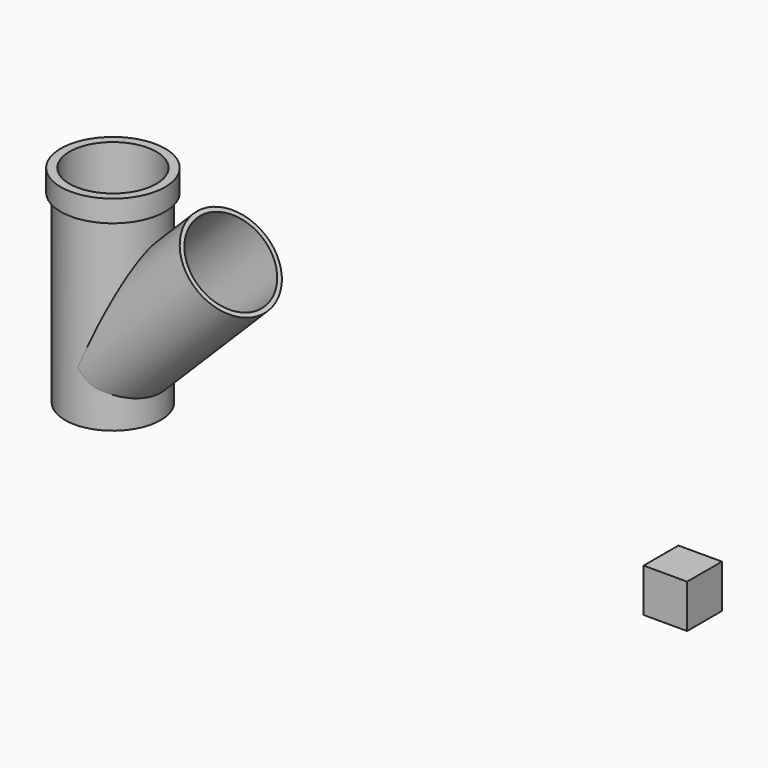
from build123d import *

# Parameters (mm, degrees)
F0_W     = 2
F0_H     = 10
F0_W_2   = 20
F0_H_2   = 20
F3_DEPTH = 10


with BuildPart() as f1:
    # F0 (on Front) → F1 (revolve)
    with BuildSketch(Plane.XZ):
        with Locations((23, 42.5)):
            Rectangle(F0_W, F0_H)
        Polygon((20, 45.5), (20, 23.8248504249), (22, 25.8248504249), (22, 37.5), (22, 47.5), (20, 47.5), align=None)
        Polygon((20, 20.9964233001), (20, -45.5), (20, -47.5), (22, -47.5), (22, 22.9964233001), align=None)
        with Locations((23, 42.5)):
            Rectangle(F0_W, F0_H)
        Polygon((20, 23.8248504249), (20, 20.9964233001), (22, 22.9964233001), (22, 25.8248504249), align=None)
    revolve(axis=Axis((0, 0, -46.5), (0, 0, 1)))

    # F0 (on Front) → F2 (revolve)
    with BuildSketch(Plane.XZ):
        Polygon((22, 25.8248504249), (22, 22.9964233001), (40.0522784804, 41.0487017805), (38.638064918, 42.4629153429), align=None)
        Polygon((0, 0.9964233001), (20, 20.9964233001), (20, 23.8248504249), (0, 3.8248504249), align=None)
        Polygon((-11.8633580263, -10.8669347261), (0, 0.9964233001), (0, 3.8248504249), (-13.2775715886, -9.4527211638), align=None)
        Polygon((20, 23.8248504249), (20, 20.9964233001), (22, 22.9964233001), (22, 25.8248504249), align=None)
    revolve(axis=Axis((27.0972070521, 0, -0.1906408953), (-0.7071067812, 0, -0.7071067812)))


with BuildPart() as f3:
    # F0 (on Front) → F3 (new body, symmetric)
    with BuildSketch(Plane.XZ):
        with Locations((262, -37.5)):
            Rectangle(F0_W_2, F0_H_2)
        with Locations((262, -37.5)):
            Rectangle(F0_W_2, F0_H_2)
    extrude(amount=F3_DEPTH, both=True)


with BuildPart() as f3b:
    # F0 (on Front) → F3, piece 2 (new body, symmetric)
    with BuildSketch(Plane.XZ):
        Polygon((22, 25.8248504249), (22, 22.9964233001), (40.0522784804, 41.0487017805), (38.638064918, 42.4629153429), align=None)
        Polygon((0, 0.9964233001), (20, 20.9964233001), (20, 23.8248504249), (0, 3.8248504249), align=None)
        Polygon((-11.8633580263, -10.8669347261), (0, 0.9964233001), (0, 3.8248504249), (-13.2775715886, -9.4527211638), align=None)
        Polygon((20, 23.8248504249), (20, 20.9964233001), (22, 22.9964233001), (22, 25.8248504249), align=None)
        Polygon((20, 20.9964233001), (20, -45.5), (20, -47.5), (22, -47.5), (22, 22.9964233001), align=None)
        Polygon((20, 45.5), (20, 23.8248504249), (22, 25.8248504249), (22, 37.5), (22, 47.5), (20, 47.5), align=None)
        with Locations((23, 42.5)):
            Rectangle(F0_W, F0_H)
    extrude(amount=F3_DEPTH, both=True)


solid = Compound([f1.part, f3.part])
